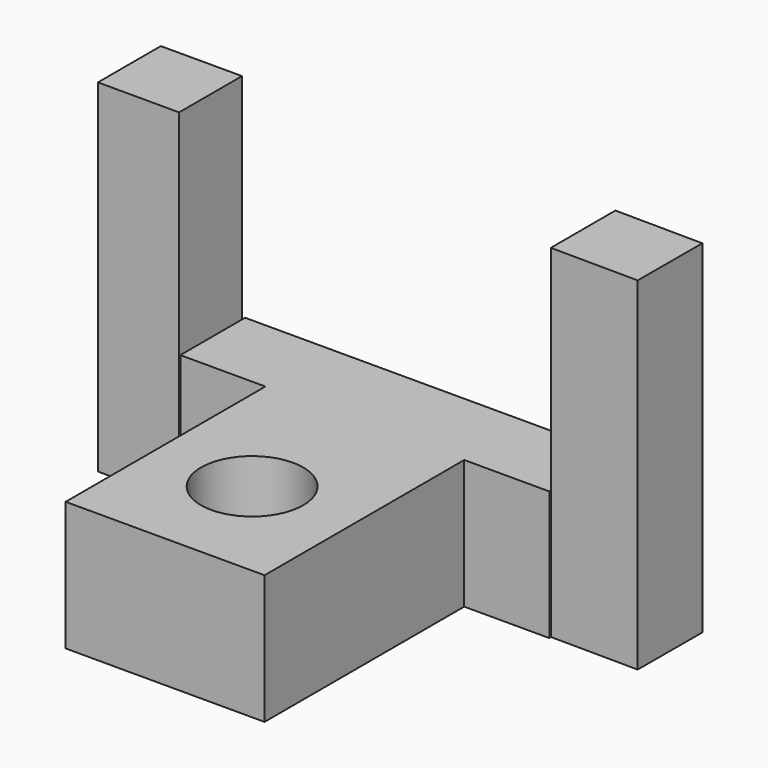
from build123d import *

# Parameters (mm, degrees)
F1_DEPTH = 32.258
F2_W     = 20.288836
F2_H     = 19.634359
F3_DEPTH = 85.598
F4_R     = 12.779101
F5_DEPTH = 52.07


with BuildPart() as f1:
    # F0 (on Top) → F1 (new body)
    with BuildSketch(Plane.XY):
        Polygon((-24.328522, 23.469938), (-24.328522, -38.89332), (25.356488, -38.89332), (25.356488, 23.469938), (46.601125, 23.469938), (46.601125, 43.694757), (-45.573149, 43.694757), (-45.573149, 23.469938), align=None)
    extrude(amount=F1_DEPTH)

    # F2 (on Top) → F3 (join)
    with BuildSketch(Plane.XY):
        with Locations((-55.957915, 33.212926)):
            Rectangle(F2_W, F2_H)
        Polygon((68.443626, 43.971624), (46.55816, 44.179935), (46.55816, 24.018798), (68.382069, 23.841394), align=None)
    extrude(amount=F3_DEPTH)

    # F4 (on Top) → F5 (cut)
    with BuildSketch(Plane.XY):
        with Locations((0, -11.068921)):
            Circle(F4_R)
    extrude(amount=F5_DEPTH, mode=Mode.SUBTRACT)


solid = f1.part
